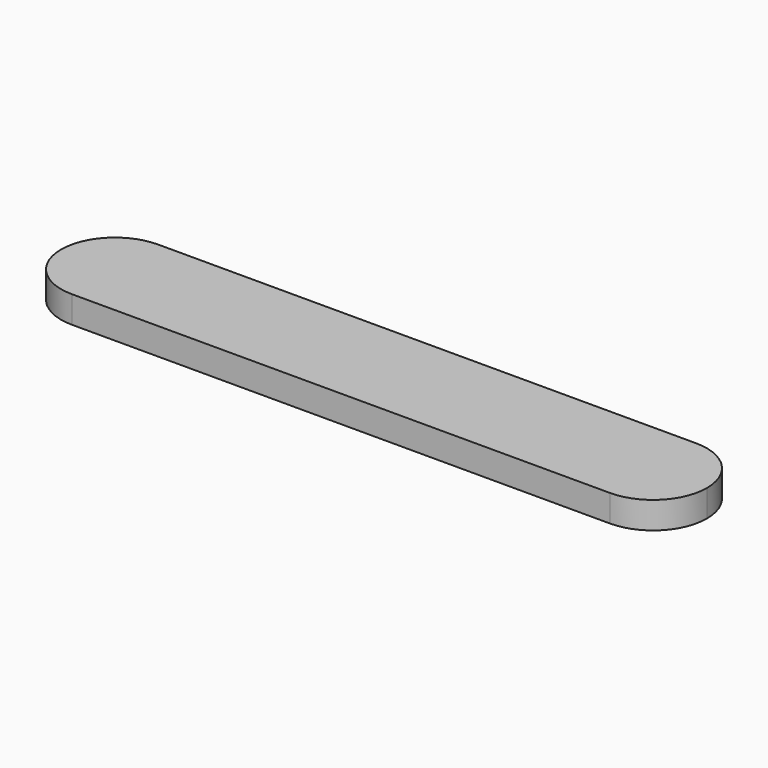
from build123d import *

# Parameters (mm, degrees)
F1_DEPTH = 5


with BuildPart() as f1:
    # F0 (on Top) → F1 (new body)
    with BuildSketch(Plane.XY):
        with BuildLine():
            ThreePointArc((50, -10), (40, 0), (50, 10))
            Line((50, 10), (-50, 10))
            ThreePointArc((-50, 10), (-42.9289321881, 7.0710678119), (-40, 0))
            ThreePointArc((-40, 0), (-42.9289321881, -7.0710678119), (-50, -10))
            Line((-50, -10), (50, -10))
        make_face()
        with BuildLine():
            ThreePointArc((60, 0), (57.0710678119, 7.0710678119), (50, 10))
            Line((50, 10), (50, -10))
            ThreePointArc((50, -10), (57.0710678119, -7.0710678119), (60, 0))
        make_face()
        with BuildLine():
            Line((50, -10), (50, 10))
            ThreePointArc((50, 10), (40, 0), (50, -10))
        make_face()
        with BuildLine():
            ThreePointArc((-40, 0), (-42.9289321881, 7.0710678119), (-50, 10))
            Line((-50, 10), (-50, -10))
            ThreePointArc((-50, -10), (-42.9289321881, -7.0710678119), (-40, 0))
        make_face()
        with BuildLine():
            Line((-50, -10), (-50, 10))
            ThreePointArc((-50, 10), (-60, 0), (-50, -10))
        make_face()
    extrude(amount=F1_DEPTH)


solid = f1.part
